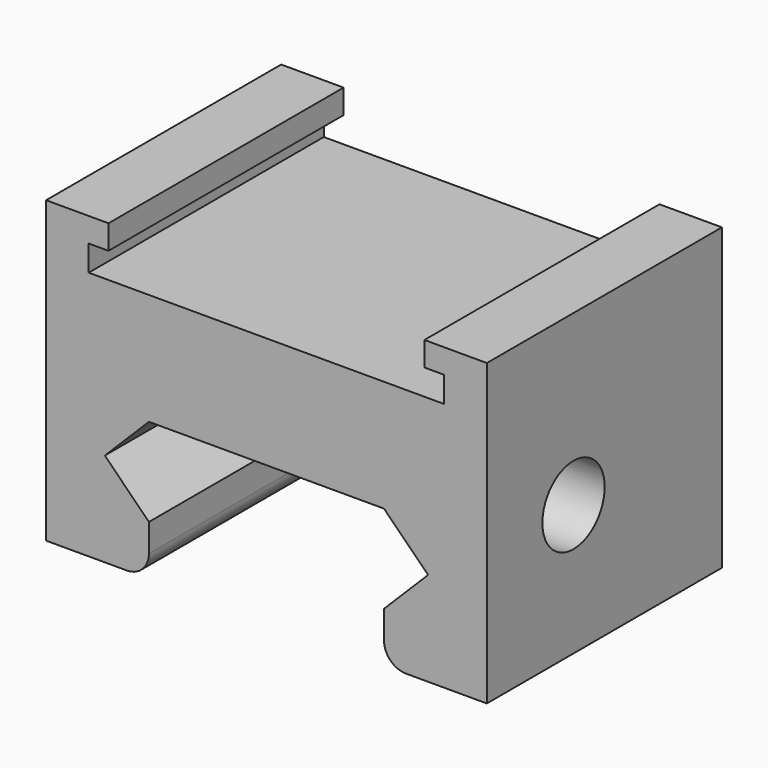
from build123d import *

# Parameters (mm, degrees)
F1_DEPTH = 20
F2_R     = 2.65
F3_DEPTH = 30
F5_DEPTH = 2.75


with BuildPart() as f1:
    # F0 (on Front) → F1 (new body)
    with BuildSketch(Plane.XZ):
        with BuildLine():
            Line((12.1, 16.959205), (-12.1, 16.959205))
            Line((-12.1, 16.959205), (-12.1, 18.709205))
            Line((-12.1, 18.709205), (-10.75, 18.709205))
            Line((-10.75, 18.709205), (-10.75, 20.359205))
            Line((-10.75, 20.359205), (-15, 20.359205))
            Line((-15, 20.359205), (-15, -0.040795))
            Line((-15, -0.040795), (-9.5, -0.040795))
            ThreePointArc((-9.5, -0.040795), (-8.43934, 0.398545), (-8, 1.459205))
            Line((-8, 1.459205), (-8, 3.359205))
            Line((-8, 3.359205), (-11, 6.359205))
            Line((-11, 6.359205), (-8, 9.359205))
            Line((-8, 9.359205), (8, 9.359205))
            Line((8, 9.359205), (11, 6.359205))
            Line((11, 6.359205), (8, 3.359205))
            Line((8, 3.359205), (8, 1.459205))
            ThreePointArc((8, 1.459205), (8.43934, 0.398545), (9.5, -0.040795))
            Line((9.5, -0.040795), (15, -0.040795))
            Line((15, -0.040795), (15, 20.359205))
            Line((15, 20.359205), (10.75, 20.359205))
            Line((10.75, 20.359205), (10.75, 18.709205))
            Line((10.75, 18.709205), (12.1, 18.709205))
            Line((12.1, 18.709205), (12.1, 16.959205))
        make_face()
    extrude(amount=F1_DEPTH)

    # F2 (on face) → F3 (cut)
    with BuildSketch(Plane.YZ.offset(15)):
        with Locations((-12.625, 8.859205)):
            Circle(F2_R)
    extrude(amount=-F3_DEPTH, mode=Mode.SUBTRACT)

    # F4 (on face) → F5 (cut)
    with BuildSketch(Plane(origin=(-15, 0, 0), x_dir=(0, -1, 0), z_dir=(-1, 0, 0))):
        Polygon((16.61254, 11.302466), (12.502844, 13.534147), (8.515304, 11.090886), (8.63746, 6.415944), (12.747156, 4.184264), (16.734696, 6.627525), align=None)
    extrude(amount=-F5_DEPTH, mode=Mode.SUBTRACT)


solid = f1.part
